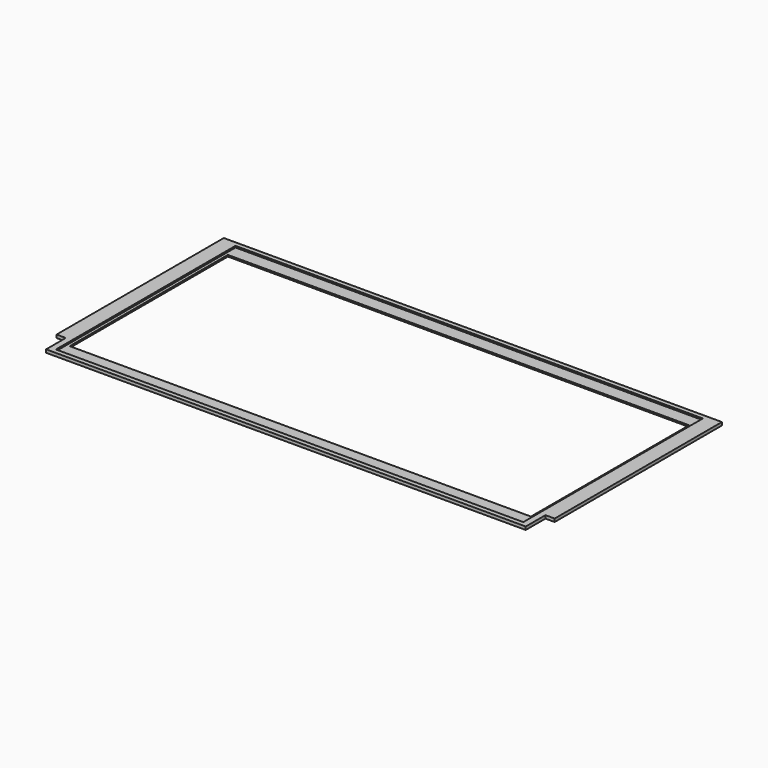
from build123d import *

# Parameters (mm, degrees)
F0_W     = 152
F0_H     = 73
F1_DEPTH = 1
F0_W_2   = 150
F0_H_2   = 64.29
F2_DEPTH = 0.5


with BuildPart() as f1:
    # F0 (on Top) → F1 (new body)
    with BuildSketch(Plane.XY):
        Polygon((-78, -30), (-78, -38), (78, -38), (78, -30), (81, -30), (81, 38), (-81, 38), (-81, -30), align=None)
        Rectangle(F0_W, F0_H, mode=Mode.SUBTRACT)
    extrude(amount=F1_DEPTH)

    # F0 (on Top) → F2 (join)
    with BuildSketch(Plane.XY):
        Rectangle(F0_W, F0_H)
        Rectangle(F0_W_2, F0_H_2, mode=Mode.SUBTRACT)
    extrude(amount=F2_DEPTH)


solid = f1.part
